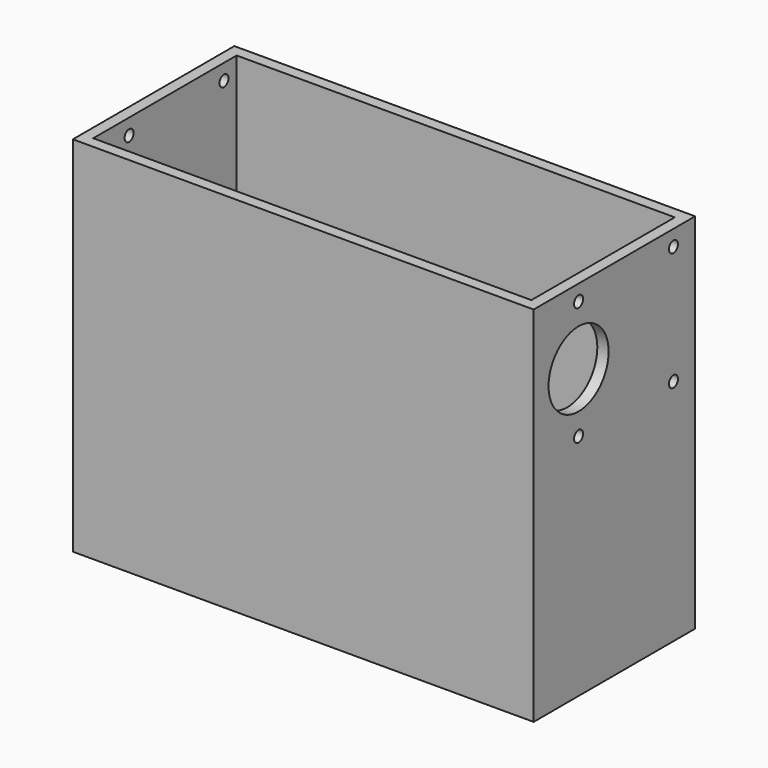
from build123d import *

# Parameters (mm, degrees)
F0_W     = 81.6
F0_H     = 35.75
F0_R     = 1
F0_R_2   = 6.65
F1_DEPTH = 2
F2_DEPTH = 64.3
F3_R     = 6.65
F3_R_2   = 1
F4_DEPTH = 81.601


with BuildPart() as f1:
    # F0 (on Top) → F1 (new body)
    with BuildSketch(Plane.XY):
        Rectangle(F0_W, F0_H)
        Polygon((-38.8, -15.875), (-38.8, 15.875), (0, 15.875), (38.8, 15.875), (38.8, -15.875), (0, -15.875), align=None, mode=Mode.SUBTRACT)
        Polygon((0, 15.875), (-38.8, 15.875), (-38.8, -15.875), (0, -15.875), (38.8, -15.875), (38.8, 15.875), align=None)
        with Locations((-35.5, -8.425)):
            Circle(F0_R, mode=Mode.SUBTRACT)
        with Locations((-25, -8.425)):
            Circle(F0_R_2, mode=Mode.SUBTRACT)
        with Locations((-14.5, -8.425)):
            Circle(F0_R, mode=Mode.SUBTRACT)
        with Locations((14.5, -8.425)):
            Circle(F0_R, mode=Mode.SUBTRACT)
        with Locations((25, -8.425)):
            Circle(F0_R_2, mode=Mode.SUBTRACT)
        with Locations((35.5, -8.425)):
            Circle(F0_R, mode=Mode.SUBTRACT)
        with Locations((-35.5, 12.575)):
            Circle(F0_R, mode=Mode.SUBTRACT)
        with Locations((-14.5, 12.575)):
            Circle(F0_R, mode=Mode.SUBTRACT)
        with Locations((14.5, 12.575)):
            Circle(F0_R, mode=Mode.SUBTRACT)
        with Locations((35.5, 12.575)):
            Circle(F0_R, mode=Mode.SUBTRACT)
    extrude(amount=F1_DEPTH)

    # F0 (on Top) → F2 (join)
    with BuildSketch(Plane.XY):
        Rectangle(F0_W, F0_H)
        Polygon((-38.8, -15.875), (-38.8, 15.875), (0, 15.875), (38.8, 15.875), (38.8, -15.875), (0, -15.875), align=None, mode=Mode.SUBTRACT)
    extrude(amount=F2_DEPTH)

    # F3 (on face) → F4 (cut, through all)
    with BuildSketch(Plane.YZ.offset(40.8)):
        with Locations((-7.925, 51)):
            Circle(F3_R)
        with Locations((-7.925, 61.5)):
            Circle(F3_R_2)
        with Locations((-7.925, 40.5)):
            Circle(F3_R_2)
        with Locations((13.075, 40.5)):
            Circle(F3_R_2)
        with Locations((13.075, 61.5)):
            Circle(F3_R_2)
    extrude(amount=-F4_DEPTH, mode=Mode.SUBTRACT)


solid = f1.part
